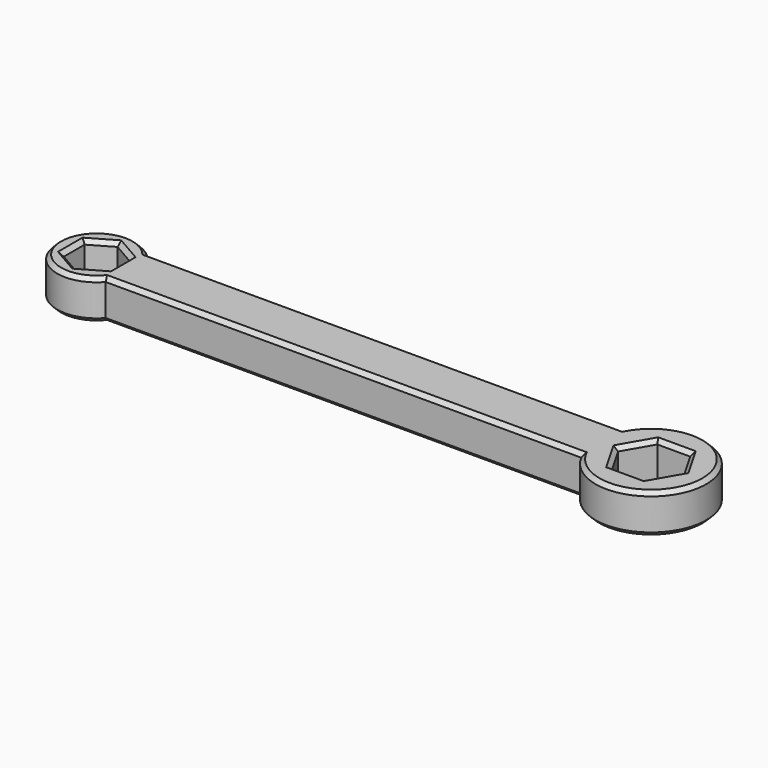
from build123d import *

# Parameters (mm, degrees)
F1_DEPTH = 5
F2_SIZE  = 0.5


with BuildPart() as f1:
    # F0 (on Top) → F1 (new body)
    with BuildSketch(Plane.XY):
        with BuildLine():
            Line((28.821813, 3.290897), (-31.235694, 3.290897))
            ThreePointArc((-31.235694, 3.290897), (-40, 0), (-31.235694, -3.290897))
            Line((-31.235694, -3.290897), (28.821813, -3.290897))
            ThreePointArc((28.821813, -3.290897), (42, 0), (28.821813, 3.290897))
        make_face()
        Polygon((-32.15, 1.645448), (-32.15, -1.645448), (-35, -3.290897), (-37.85, -1.645448), (-37.85, 1.645448), (-35, 3.290897), align=None, mode=Mode.SUBTRACT)
        Polygon((39.156922, 0), (37.078461, -3.6), (32.921539, -3.6), (30.843078, 0), (32.921539, 3.6), (37.078461, 3.6), align=None, mode=Mode.SUBTRACT)
    extrude(amount=F1_DEPTH)

    # F2
    f2_edges = [f1.edges().sort_by_distance(p)[0] for p in [
        (-36.425, 2.468172, 5),
        (-33.575, 2.468172, 5),
        (-32.15, 0, 5),
        (-33.575, -2.468172, 5),
        (-36.425, -2.468172, 5),
        (-37.85, 0, 5),
        (42, 0, 5),
        (-1.206941, 3.290897, 5),
        (-40, 0, 5),
        (-1.206941, -3.290897, 5),
        (35, 3.6, 5),
        (38.117691, 1.8, 5),
        (38.117691, -1.8, 5),
        (35, -3.6, 5),
        (31.882309, -1.8, 5),
        (31.882309, 1.8, 5),
        (42, 0, 0),
        (-1.206941, 3.290897, 0),
        (-40, 0, 0),
        (-1.206941, -3.290897, 0),
        (-33.575, 2.468172, 0),
        (-32.15, 0, 0),
        (-33.575, -2.468172, 0),
        (-36.425, -2.468172, 0),
        (-37.85, 0, 0),
        (-36.425, 2.468172, 0),
        (35, 3.6, 0),
        (38.117691, 1.8, 0),
        (38.117691, -1.8, 0),
        (35, -3.6, 0),
        (31.882309, -1.8, 0),
        (31.882309, 1.8, 0),
    ]]
    chamfer(f2_edges, length=F2_SIZE)


solid = f1.part
